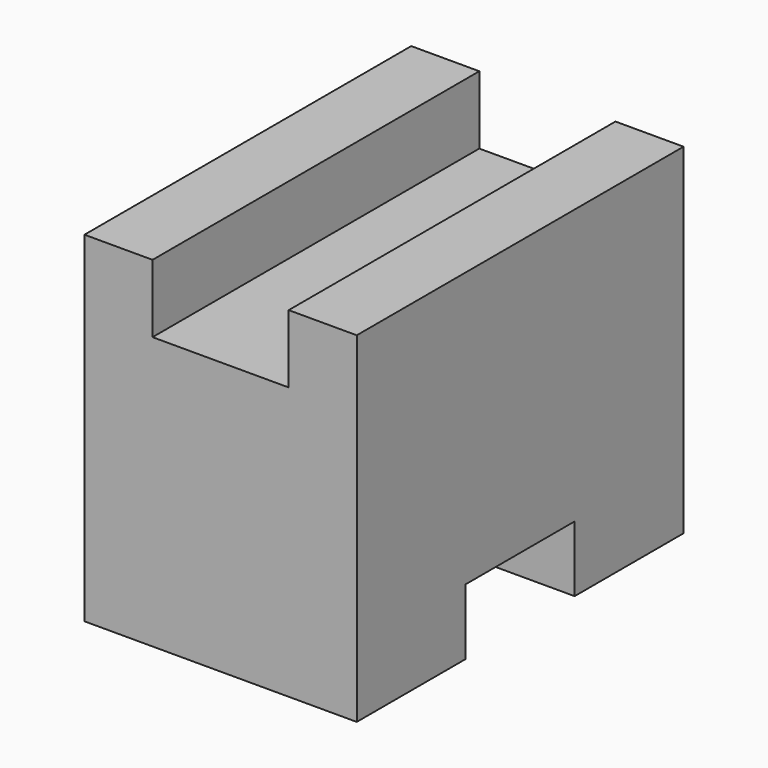
from build123d import *

# Parameters (mm, degrees)
F0_W     = 38.1
F0_H     = 31.75
F1_DEPTH = 25.4
F2_W     = 12.7
F2_H     = 6.35
F3_DEPTH = 50.8
F4_W     = 12.7
F4_H     = 6.35
F5_DEPTH = 25.4
F6_DEPTH = 50.8
F7_DEPTH = 50.8


with BuildPart() as f1:
    # F0 (on Right) → F1 (new body)
    with BuildSketch(Plane.YZ):
        with Locations((-19.56449, 34.578869)):
            Rectangle(F0_W, F0_H)
    extrude(amount=F1_DEPTH)

    # F2 (on Front) → F3 (cut)
    with BuildSketch(Plane.XZ):
        with Locations((12.7, 47.278869)):
            Rectangle(F2_W, F2_H)
    extrude(amount=F3_DEPTH, mode=Mode.SUBTRACT)

    # F4 (on Right) → F5 (cut)
    with BuildSketch(Plane.YZ):
        with Locations((-19.56449, 21.668796)):
            Rectangle(F4_W, F4_H)
    extrude(amount=F5_DEPTH, mode=Mode.SUBTRACT)

    # F2 (on Front) → F6 (cut)
    with BuildSketch(Plane.XZ):
        with Locations((12.7, 47.278869)):
            Rectangle(F2_W, F2_H)
    extrude(amount=F6_DEPTH, mode=Mode.SUBTRACT)

    # F2 (on Front) → F7 (cut)
    with BuildSketch(Plane.XZ):
        with Locations((12.7, 47.278869)):
            Rectangle(F2_W, F2_H)
    extrude(amount=F7_DEPTH, mode=Mode.SUBTRACT)


solid = f1.part
